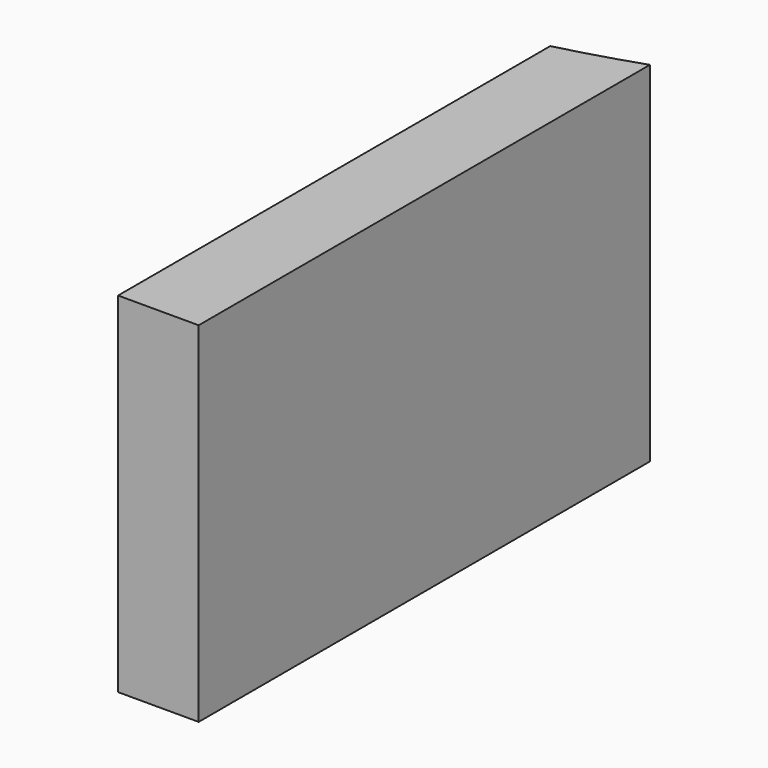
from build123d import *

# Parameters (mm, degrees)
CYLINDER964_R          = 74
CYLINDER964_DEPTH      = 32
BOX476_W               = 50
BOX476_H               = 6
BOX476_DEPTH           = 26
CUT443_PLACEMENT_ANGLE = 90


with BuildPart() as obj1:
    # Cylinder964 → Cylinder964 (new body)
    with BuildSketch(Plane.XY.offset(50)):
        Circle(CYLINDER964_R)
    extrude(amount=CYLINDER964_DEPTH)


with BuildPart() as cut443:
    # Box476 → Box476 (new body)
    with BuildSketch(Plane(origin=(-112, -24, 56), x_dir=(1, 0, 0), z_dir=(0, 0, 1))):
        with Locations((25, 3)):
            Rectangle(BOX476_W, BOX476_H)
    extrude(amount=BOX476_DEPTH)

    # Cut443: cut obj1
    add(obj1.part, mode=Mode.SUBTRACT)


with BuildPart() as cut443_1:
    # Cut443 placement: moved
    add(cut443.part.rotate(Axis((0, 0, 0), (0, 0, 1)), CUT443_PLACEMENT_ANGLE))


solid = cut443_1.part
